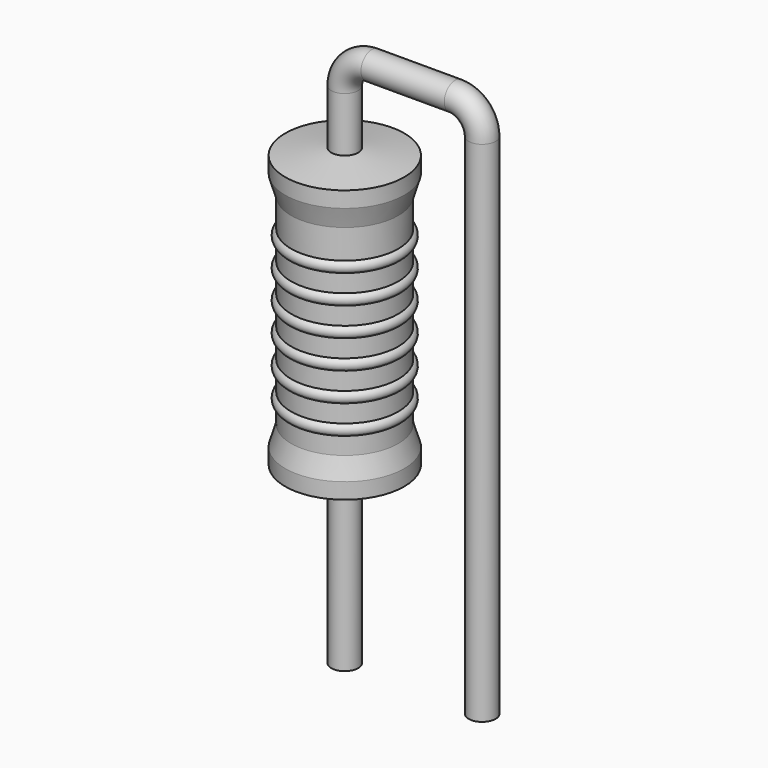
from build123d import *

# Parameters (mm, degrees)
SKETCH_R = 0.25


with BuildPart() as revolution:
    # Sketch002 → Revolution (revolve)
    with BuildSketch(Plane.XZ):
        Polygon((0, 0.1), (0, 5.4), (0.1875, 5.4), (1.1, 5.2675), (1.1, 4.975), (0.99, 4.605), (0.99, 0.895), (1.1, 0.525), (1.1, 0.2325), (0.1875, 0.1), align=None)
    revolve(axis=Axis((0, 0, 0), (0, 0, 1)))


with BuildPart() as revolution001:
    # Sketch003 → Revolution001 (revolve)
    with BuildSketch(Plane.XZ):
        with BuildLine():
            Line((0.88, 4.385), (0.88, 0.895))
            Line((0.88, 0.895), (0.946, 0.895))
            Line((0.946, 0.895), (0.946, 1.205))
            ThreePointArc((0.946, 1.205), (1.056, 1.315), (0.946, 1.425))
            Line((0.946, 1.425), (0.946, 1.735))
            ThreePointArc((0.946, 1.735), (1.056, 1.845), (0.946, 1.955))
            Line((0.946, 1.955), (0.946, 2.265))
            ThreePointArc((0.946, 2.265), (1.056, 2.375), (0.946, 2.485))
            Line((0.946, 2.485), (0.946, 2.795))
            ThreePointArc((0.946, 2.795), (1.056, 2.905), (0.946, 3.015))
            Line((0.946, 3.015), (0.946, 3.325))
            ThreePointArc((0.946, 3.325), (1.056, 3.435), (0.946, 3.545))
            Line((0.946, 3.545), (0.946, 3.855))
            ThreePointArc((0.946, 3.855), (1.056, 3.965), (0.946, 4.075))
            Line((0.946, 4.385), (0.946, 4.075))
            Line((0.88, 4.385), (0.946, 4.385))
        make_face()
    revolve(axis=Axis((0, 0, 0), (0, 0, 1)))


with BuildPart() as obj1:
    # Sweep: sweep along a path in Sketch001
    with BuildLine(Plane.XZ) as sweep_path:
        Line((0, -3), (0, 6.4))
        ThreePointArc((0, 6.4), (0.146444, 6.75355), (0.499992, 6.9))
        Line((0.499992, 6.9), (2.04, 6.9))
        ThreePointArc((2.04, 6.9), (2.393553, 6.753553), (2.54, 6.4))
        Line((2.54, 6.4), (2.54, -3))
    # Sketch → Sweep (sweep)
    with BuildSketch(Plane.XY.offset(-2)):
        Circle(SKETCH_R)
    sweep(path=sweep_path.line)

    # obj1: union Revolution, Revolution001
    add(revolution.part)
    add(revolution001.part)


solid = obj1.part
